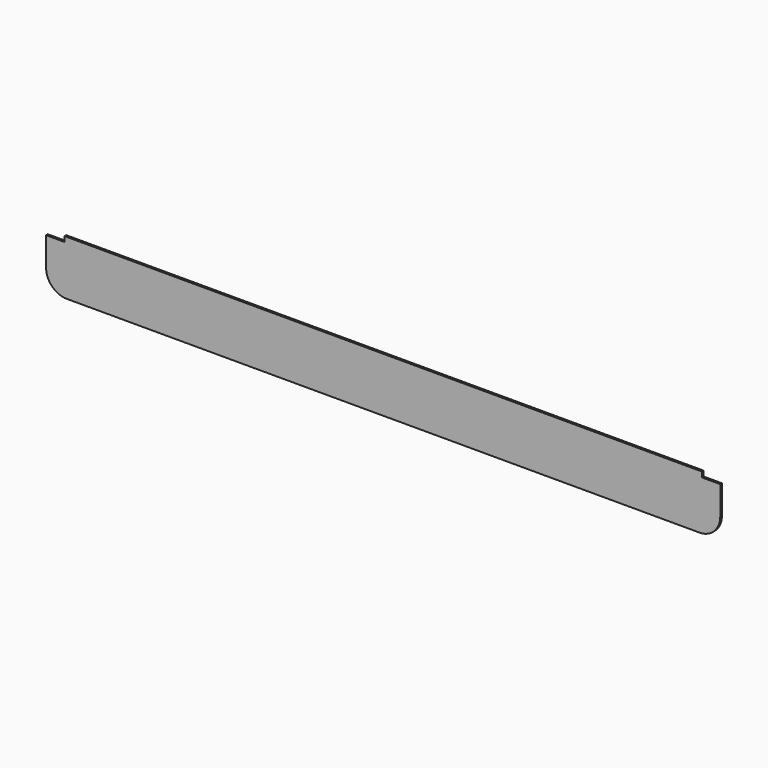
from build123d import *

# Parameters (mm, degrees)
F1_DEPTH = 0.508


with BuildPart() as f1:
    # F0 (on Front) → F1 (new body)
    with BuildSketch(Plane.XZ):
        with BuildLine():
            Line((-66.023768, 19.024508), (-70.51976, 19.024508))
            Line((-70.51976, 19.024508), (-70.51976, 12.016332))
            ThreePointArc((-70.51976, 12.016332), (-69.031863, 8.424229), (-65.43976, 6.936332))
            Line((-65.43976, 6.936332), (89.50024, 6.936332))
            ThreePointArc((89.50024, 6.936332), (93.092342, 8.424229), (94.58024, 12.016332))
            Line((94.58024, 12.016332), (94.58024, 14.556332))
            Line((94.58024, 14.556332), (94.58024, 19.024508))
            Line((94.58024, 19.024508), (90.084247, 19.024508))
            Line((90.084247, 19.024508), (90.084247, 20.294508))
            Line((90.084247, 20.294508), (-66.023768, 20.294508))
            Line((-66.023768, 20.294508), (-66.023768, 19.024508))
        make_face()
    extrude(amount=F1_DEPTH)


solid = f1.part
